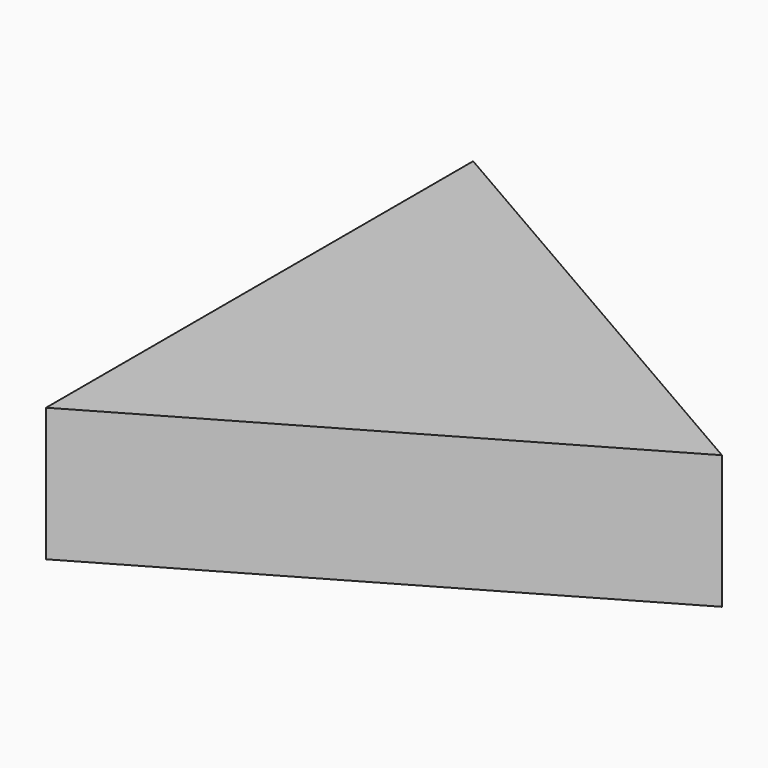
from build123d import *

# Parameters (mm, degrees)
PAD_DEPTH = 0.015


with BuildPart() as part:
    # Sketch → Pad (new body, symmetric)
    with BuildSketch(Plane.XY):
        Polygon((-0.03464, 0.06), (-0.03464, -0.06), (0.069283, 0), align=None)
    extrude(amount=PAD_DEPTH, both=True)


solid = part.part
